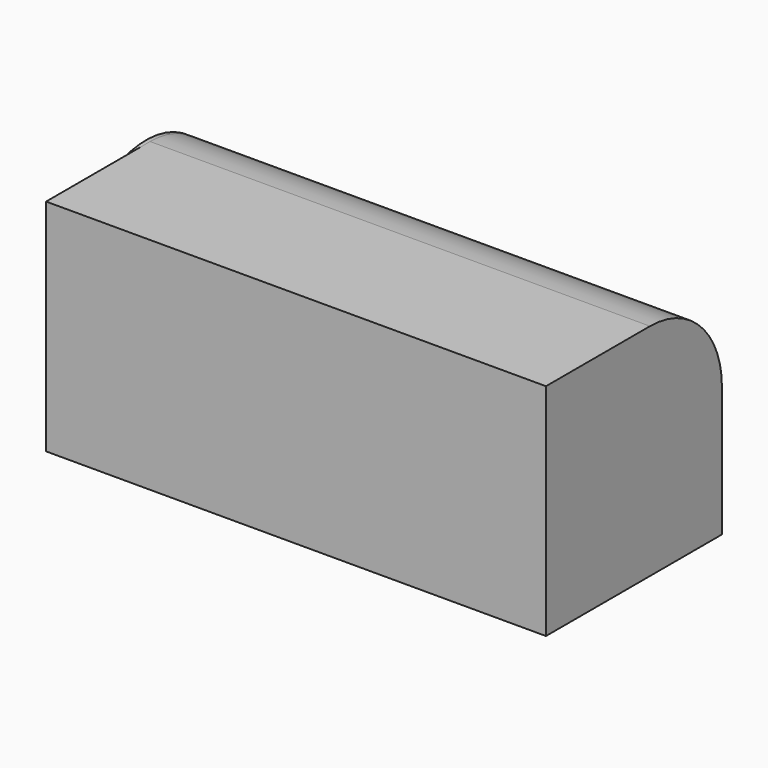
from build123d import *

# Parameters (mm, degrees)
F0_W     = 125
F0_H     = 55
F1_DEPTH = 55
F2_R     = 3
F2_R_2   = 2.5
F3_DEPTH = 5
F4_R     = 22.5
F5_DEPTH = 1
F6_R     = 22.5


with BuildPart() as f1:
    # F0 (on Top) → F1 (new body)
    with BuildSketch(Plane.XY):
        Rectangle(F0_W, F0_H)
    extrude(amount=F1_DEPTH)

    # F2 (on face) → F3 (cut)
    with BuildSketch(Plane(origin=(0, 0, 0), x_dir=(1, 0, 0), z_dir=(0, 0, -1))):
        with Locations((-40.5, -4.5)):
            Circle(F2_R)
        with Locations((-26.5, -4.5)):
            Circle(F2_R_2)
    extrude(amount=-F3_DEPTH, mode=Mode.SUBTRACT)

    # F4 (on face) → F5 (join)
    with BuildSketch(Plane(origin=(-62.5, 0, 0), x_dir=(0, -1, 0), z_dir=(-1, 0, 0))):
        with Locations((-5, 32.5)):
            Circle(F4_R)
    extrude(amount=F5_DEPTH)

    # F6
    f6_edges = [f1.edges().sort_by_distance(p)[0] for p in [
        (0, 27.5, 55),
    ]]
    fillet(f6_edges, radius=F6_R)


solid = f1.part
